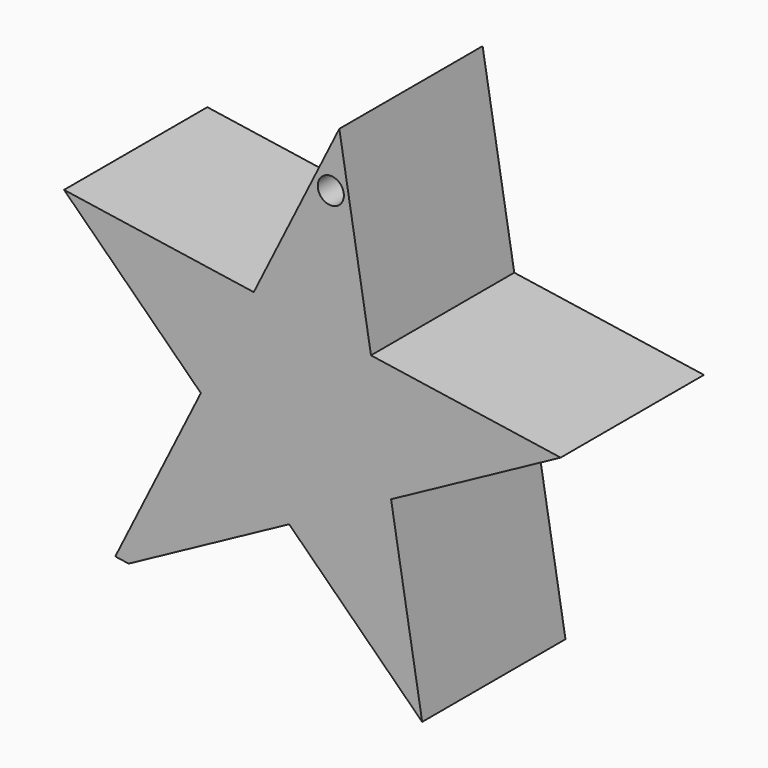
from build123d import *

# Parameters (mm, degrees)
F0_R     = 1.850612
F1_DEPTH = 25.4


with BuildPart() as f1:
    # F0 (on Front) → F1 (new body)
    with BuildSketch(Plane.XZ):
        Polygon((-26.240334, -26.700692), (-24.344907, -26.984026), (-1.583092, -14.664074), (17.285158, -33.207008), (12.873567, -6.83933), (36.923149, 6.177633), (10.022916, 10.198757), (5.534603, 37.024995), (-6.602343, 12.683948), (-33.502576, 16.705073), (-14.103388, -2.359646), align=None)
        with Locations((4.327355, 28.910402)):
            Circle(F0_R, mode=Mode.SUBTRACT)
    extrude(amount=F1_DEPTH)


solid = f1.part
